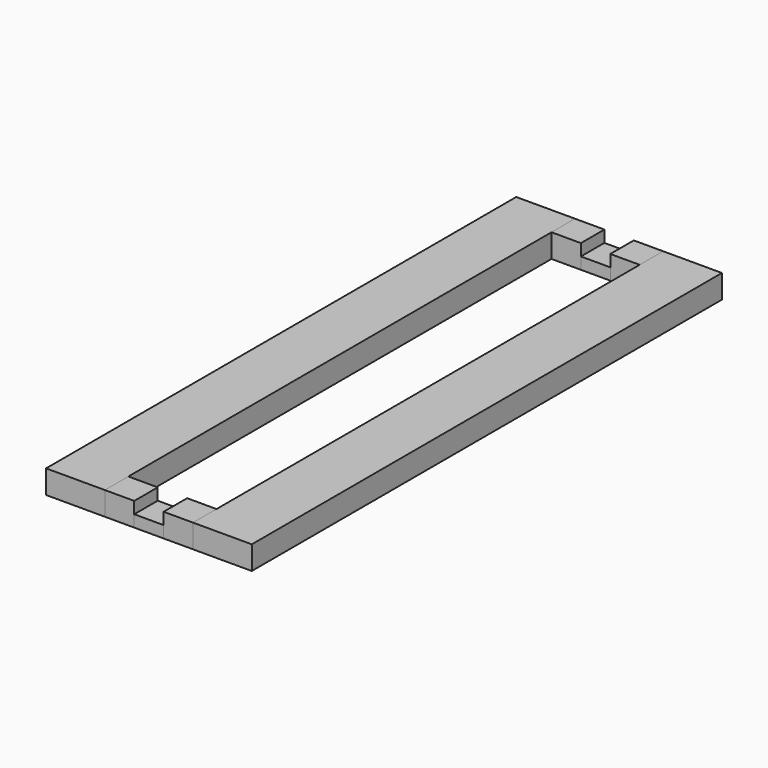
from build123d import *

# Parameters (mm, degrees)
F1_W     = 10
F1_H     = 100
F4_DEPTH = 4
F3_W     = 5
F3_H     = 5
F5_DEPTH = 4
F2_W     = 5
F2_H     = 5
F6_DEPTH = 2


with BuildPart() as f4:
    # F1 (on face) → F4 (new body)
    with BuildSketch(Plane.XY):
        with Locations((5, 50)):
            Rectangle(F1_W, F1_H)
        with Locations((30, 50)):
            Rectangle(F1_W, F1_H)
    extrude(amount=F4_DEPTH)


with BuildPart() as f5:
    # F3 (on face) → F5 (new body)
    with BuildSketch(Plane.XY):
        with Locations((12.5, 97.5)):
            Rectangle(F3_W, F3_H)
        with Locations((22.5, 97.5)):
            Rectangle(F3_W, F3_H)
        with Locations((12.5, 2.5)):
            Rectangle(F3_W, F3_H)
        with Locations((22.5, 2.5)):
            Rectangle(F3_W, F3_H)
    extrude(amount=F5_DEPTH)


with BuildPart() as f6:
    # F2 (on face) → F6 (new body)
    with BuildSketch(Plane.XY):
        with Locations((17.5, 97.5)):
            Rectangle(F2_W, F2_H)
        with Locations((17.5, 2.5)):
            Rectangle(F2_W, F2_H)
    extrude(amount=F6_DEPTH)


solid = Compound([f4.part, f5.part, f6.part])
